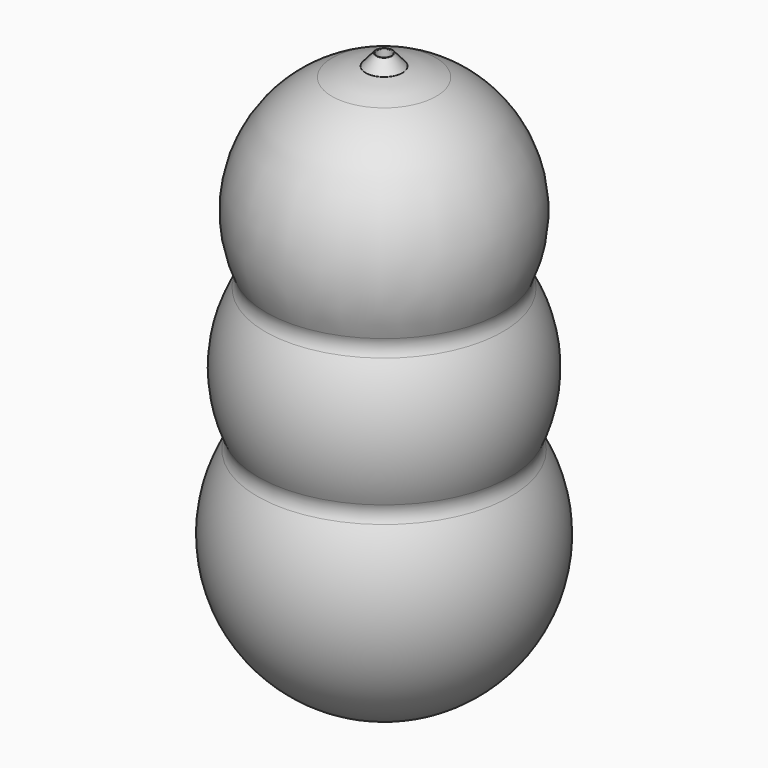
from build123d import *

# Parameters (mm, degrees)
F2_R = 1
F3_R = 1


with BuildPart() as f1:
    # F0 (on Front) → F1 (revolve)
    with BuildSketch(Plane.XZ):
        with BuildLine():
            ThreePointArc((-34.266074, 24.765625), (-33.842621, 22.456326), (-34.519897, 20.208333))
            ThreePointArc((-34.519897, 20.208333), (-38.57309, -10.588518), (-19.364917, -35))
            ThreePointArc((-19.364917, -35), (-16.259648, -36.546188), (-13.032093, -37.817516))
            Line((-13.032093, -37.817516), (-13.032093, -35.162687))
            ThreePointArc((-13.032093, -35.162687), (-35.502068, -12.076969), (-31.770567, 19.921875))
            ThreePointArc((-31.770567, 19.921875), (-31.014124, 22.304688), (-31.505812, 24.755859))
            ThreePointArc((-31.505812, 24.755859), (-34.945242, 41.957063), (-29.606681, 58.666667))
            ThreePointArc((-29.606681, 58.666667), (-28.844733, 61.041468), (-29.324713, 63.488889))
            ThreePointArc((-29.324713, 63.488889), (-28.012475, 93.978812), (-2, 109.938403))
            Line((-2, 109.938403), (-2, 112.44281))
            ThreePointArc((-2, 112.44281), (-3.481092, 112.326455), (-4.955913, 112.147351))
            Line((-4.955913, 112.147351), (-4.956376, 112.147285))
            ThreePointArc((-4.956376, 112.147285), (-4.987946, 112.142754), (-5.019512, 112.138194))
            ThreePointArc((-5.019512, 112.138194), (-9.688696, 111.132264), (-14.177447, 109.5))
            ThreePointArc((-14.177447, 109.5), (-32.617362, 90.192822), (-32.07803, 63.5))
            ThreePointArc((-32.07803, 63.5), (-31.669437, 61.202956), (-32.347593, 58.970588))
            ThreePointArc((-32.347593, 58.970588), (-37.441154, 42.099992), (-34.266074, 24.765625))
        make_face()
        with BuildLine():
            ThreePointArc((-4.965865, 112.180394), (-4.990677, 112.156737), (-5.019512, 112.138194))
            ThreePointArc((-5.019512, 112.138194), (-4.987946, 112.142754), (-4.956376, 112.147285))
            Line((-4.956376, 112.147285), (-4.955913, 112.147351))
            ThreePointArc((-4.955913, 112.147351), (-3.481092, 112.326455), (-2, 112.44281))
            Line((-2, 112.44281), (-2, 115.13819))
            ThreePointArc((-2, 115.13819), (-2.11249, 115.300225), (-2.303625, 115.251473))
            Line((-2.303625, 115.251473), (-4.965865, 112.180394))
        make_face()
    revolve(axis=Axis((0, 0, 36.25), (0, 0, -1)))

    # F2
    f2_edges = [f1.edges().sort_by_distance(p)[0] for p in [
        (13.032093, 0, -35.162687),
    ]]
    fillet(f2_edges, radius=F2_R)

    # F3
    f3_edges = [f1.edges().sort_by_distance(p)[0] for p in [
        (13.032093, 0, -37.817516),
    ]]
    fillet(f3_edges, radius=F3_R)


solid = f1.part
